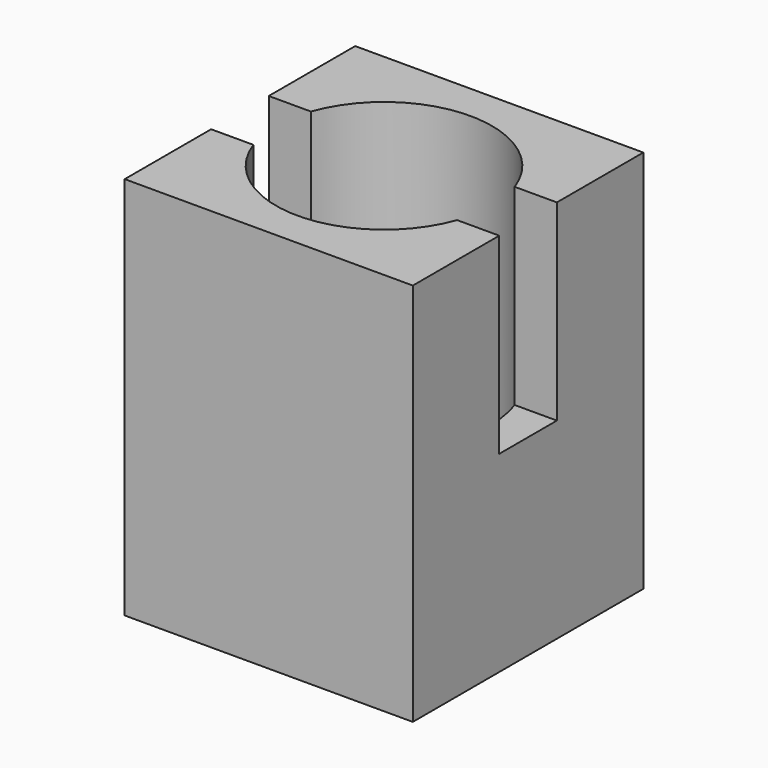
from build123d import *

# Parameters (mm, degrees)
F0_W     = 60
F0_H     = 60
F1_DEPTH = 80
F2_R     = 22.5
F3_DEPTH = 80
F4_W     = 15
F4_H     = 40
F5_DEPTH = 60


with BuildPart() as f1:
    # F0 (on Top) → F1 (new body)
    with BuildSketch(Plane.XY):
        Rectangle(F0_W, F0_H)
    extrude(amount=F1_DEPTH)

    # F2 (on face) → F3 (cut)
    with BuildSketch(Plane.XY.offset(80)):
        Circle(F2_R)
    extrude(amount=-F3_DEPTH, mode=Mode.SUBTRACT)

    # F4 (on face) → F5 (cut)
    with BuildSketch(Plane.YZ.offset(30)):
        with Locations((0, 60)):
            Rectangle(F4_W, F4_H)
    extrude(amount=-F5_DEPTH, mode=Mode.SUBTRACT)


solid = f1.part
